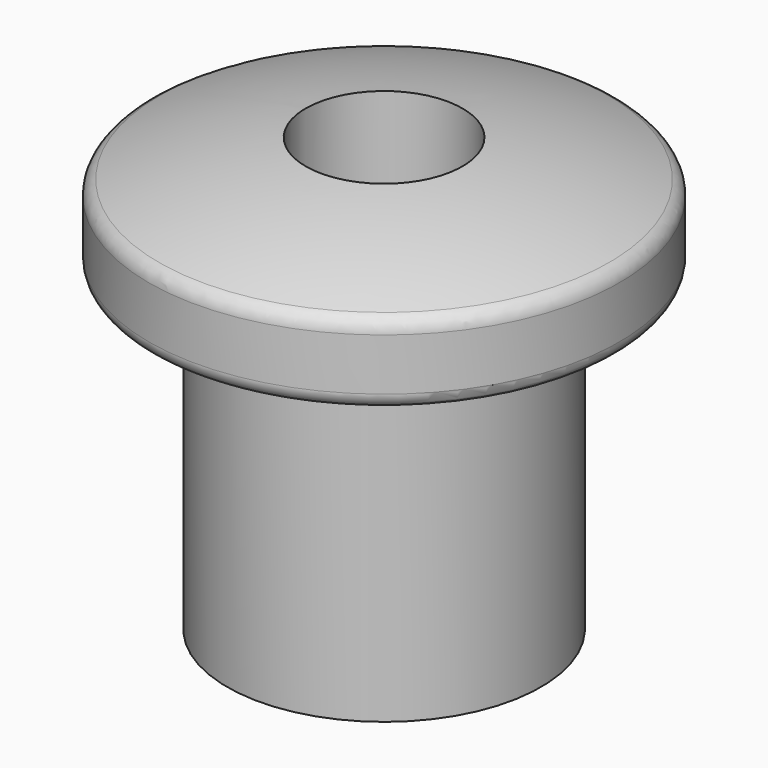
from build123d import *

# Parameters (mm, degrees)
F3_D = 6.35
F4_R = 0.635


with BuildPart() as f1:
    # F0 (on Front) → F1 (revolve)
    with BuildSketch(Plane.XZ):
        with BuildLine():
            Line((-6.35, 0), (0, 0))
            Line((0, 0), (0, 17.601251))
            Line((0, 17.601251), (-2.54, 17.601251))
            ThreePointArc((-2.54, 17.601251), (-6.093935, 16.986712), (-9.525, 15.875))
            Line((-9.525, 15.875), (-9.525, 12.7))
            Line((-9.525, 12.7), (-6.35, 12.7))
            Line((-6.35, 12.7), (-6.35, 0))
        make_face()
    revolve(axis=Axis((0, 0, 8.800625), (0, 0, 1)))

    # F3 (through all)
    with Locations(Plane.XY.offset(17.601251)):
        with Locations((0, 0)):
            Hole(F3_D / 2)

    # F4
    f4_edges = [f1.edges().sort_by_distance(p)[0] for p in [
        (9.525, 0, 12.7),
        (9.525, 0, 15.875),
    ]]
    fillet(f4_edges, radius=F4_R)


solid = f1.part
